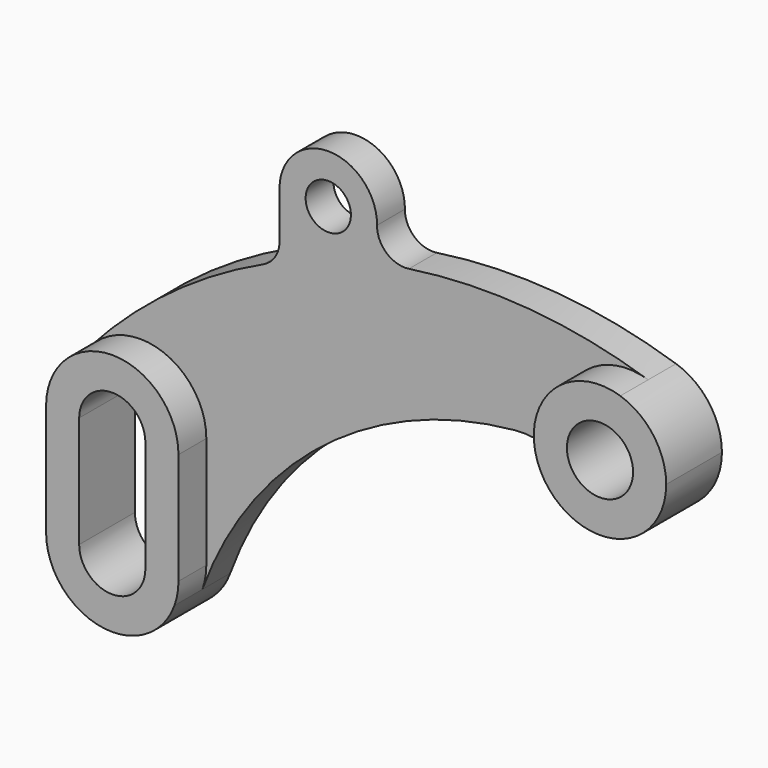
from build123d import *

# Parameters (mm, degrees)
F0_R     = 6.5
F1_DEPTH = 10
F0_R_2   = 9.5
F2_DEPTH = 20


with BuildPart() as f1:
    # F0 (on Front) → F1 (new body)
    with BuildSketch(Plane.XZ):
        with BuildLine():
            ThreePointArc((-13.040623, -13.818182), (-16.353666, 9.672518), (5.828214, 18.084024))
            ThreePointArc((5.828214, 18.084024), (-28.178216, 24.88709), (-62.841564, 23.804848))
            ThreePointArc((-62.841564, 23.804848), (-69.270753, 25.700477), (-72.001132, 31.82199))
            ThreePointArc((-72.001132, 31.82199), (-85.910993, 45.999717), (-100, 32))
            Line((-100, 32), (-100, 18.614531))
            ThreePointArc((-100, 18.614531), (-101.259043, 14.306457), (-104.639875, 11.354396))
            ThreePointArc((-104.639875, 11.354396), (-131.285838, -4.457663), (-154.171786, -25.344547))
            ThreePointArc((-154.171786, -25.344547), (-133.227406, -20.248043), (-121, -38))
            Line((-121, -38), (-121, -70))
            ThreePointArc((-121, -70), (-121.286974, -73.289778), (-122.139225, -76.480179))
            ThreePointArc((-122.139225, -76.480179), (-87.401951, -28.828969), (-32.57725, -7.113346))
            ThreePointArc((-32.57725, -7.113346), (-22.084121, -8.35379), (-13.040623, -13.818182))
        make_face()
        with Locations((-86, 32)):
            Circle(F0_R, mode=Mode.SUBTRACT)
    extrude(amount=F1_DEPTH)

    # F0 (on Front) → F2 (join)
    with BuildSketch(Plane.XZ):
        with BuildLine():
            ThreePointArc((-159, -70), (-143.289778, -88.713026), (-122.139225, -76.480179))
            ThreePointArc((-122.139225, -76.480179), (-121.286974, -73.289778), (-121, -70))
            Line((-121, -70), (-121, -38))
            ThreePointArc((-121, -38), (-133.227406, -20.248043), (-154.171786, -25.344547))
            ThreePointArc((-154.171786, -25.344547), (-157.751957, -31.227406), (-159, -38))
            Line((-159, -38), (-159, -70))
        make_face()
        with BuildLine():
            ThreePointArc((-149.5, -38), (-140, -28.5), (-130.5, -38))
            Line((-130.5, -38), (-130.5, -70))
            ThreePointArc((-130.5, -70), (-140, -79.5), (-149.5, -70))
            Line((-149.5, -70), (-149.5, -38))
        make_face(mode=Mode.SUBTRACT)
        with BuildLine():
            ThreePointArc((-13.040623, -13.818182), (7.524233, -17.446659), (19, 0))
            ThreePointArc((19, 0), (15.357996, 11.18624), (5.828214, 18.084024))
            ThreePointArc((5.828214, 18.084024), (-16.353666, 9.672518), (-13.040623, -13.818182))
        make_face()
        Circle(F0_R_2, mode=Mode.SUBTRACT)
    extrude(amount=F2_DEPTH)


solid = f1.part
